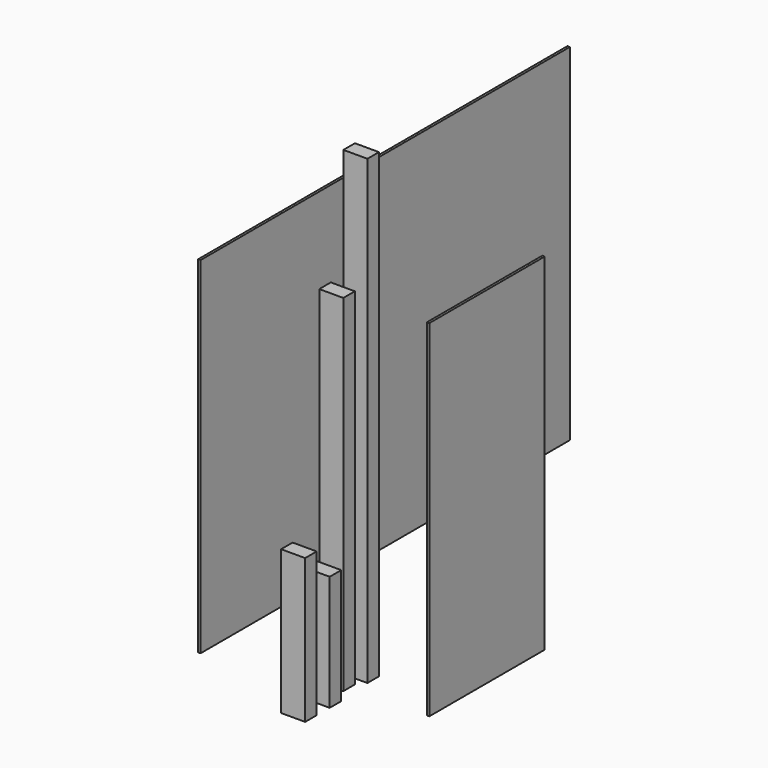
from build123d import *

# Parameters (mm, degrees)
F0_W      = 63.5
F0_H      = 38.1
F1_DEPTH  = 914.4
F2_W      = 63.5
F2_H      = 38.1
F3_DEPTH  = 1219.2
F4_W      = 63.5
F4_H      = 38.1
F5_DEPTH  = 304.8
F6_W      = 63.5
F6_H      = 38.1
F7_DEPTH  = 381
F8_W      = 6.35
F8_H      = 1219.2
F9_DEPTH  = 914.4
F10_W     = 6.35
F10_H     = 381
F11_DEPTH = 914.4


with BuildPart() as f1:
    # F0 (on Top) → F1 (new body)
    with BuildSketch(Plane.XY):
        with Locations((2.692844, -3.626693)):
            Rectangle(F0_W, F0_H)
    extrude(amount=F1_DEPTH)


with BuildPart() as f3:
    # F2 (on Top) → F3 (new body)
    with BuildSketch(Plane.XY):
        with Locations((18.859333, 55.695115)):
            Rectangle(F2_W, F2_H)
    extrude(amount=F3_DEPTH)


with BuildPart() as f5:
    # F4 (on Top) → F5 (new body)
    with BuildSketch(Plane.XY):
        with Locations((27.326927, -79.40179)):
            Rectangle(F4_W, F4_H)
    extrude(amount=F5_DEPTH)


with BuildPart() as f7:
    # F6 (on Top) → F7 (new body)
    with BuildSketch(Plane.XY):
        with Locations((27.047894, -160.159969)):
            Rectangle(F6_W, F6_H)
    extrude(amount=F7_DEPTH)


with BuildPart() as f9:
    # F8 (on Top) → F9 (new body)
    with BuildSketch(Plane.XY):
        with Locations((-304.261878, 535.019035)):
            Rectangle(F8_W, F8_H)
    extrude(amount=F9_DEPTH)


with BuildPart() as f11:
    # F10 (on Top) → F11 (new body)
    with BuildSketch(Plane.XY):
        with Locations((240.100078, 190.531134)):
            Rectangle(F10_W, F10_H)
    extrude(amount=F11_DEPTH)


solid = Compound([f1.part, f3.part, f5.part, f7.part, f9.part, f11.part])
